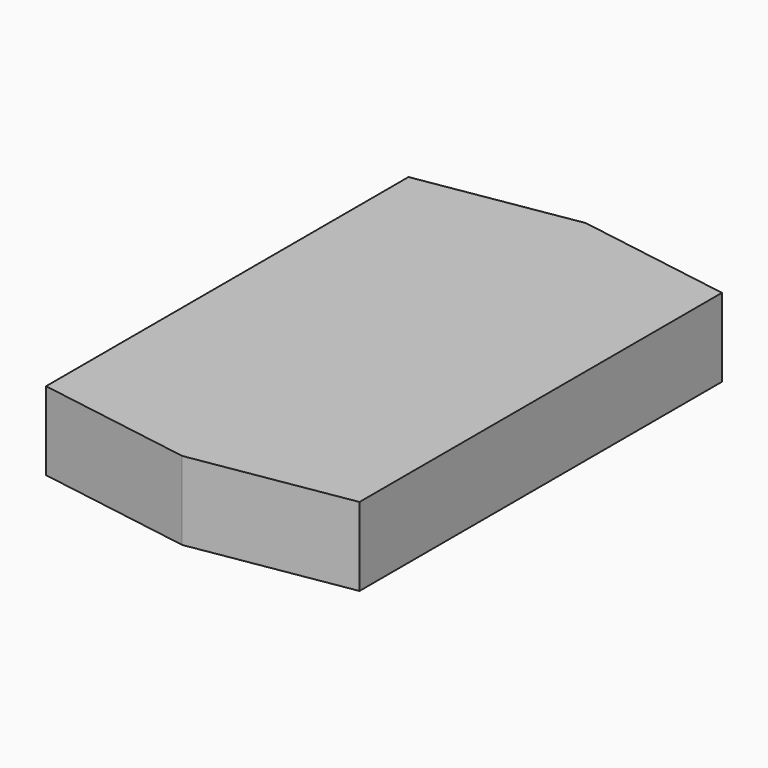
from build123d import *

# Parameters (mm, degrees)
F1_DEPTH = 16
F2_D     = 2.5
F2_DEPTH = 3
F2_TIP   = 0.7510757738


with BuildPart() as f1:
    # F0 (on Top) → F1 (new body)
    with BuildSketch(Plane.XY):
        Polygon((32, 46.25), (0, 51.5), (-32, 46.25), (-32, 0), (-32, -46.25), (0, -51.5), (32, -46.25), (32, 0), align=None)
    extrude(amount=F1_DEPTH)

    # F2
    with Locations(Plane(origin=(0, 0, 0), x_dir=(1, 0, 0), z_dir=(0, 0, -1))):
        with Locations((0, 45), (0, -45)):
            Hole(F2_D / 2, depth=F2_DEPTH)
            with Locations((0, 0, -(F2_DEPTH + F2_TIP / 2))):  # 118° drill point
                Cone(0, F2_D / 2, F2_TIP, mode=Mode.SUBTRACT)


solid = f1.part
